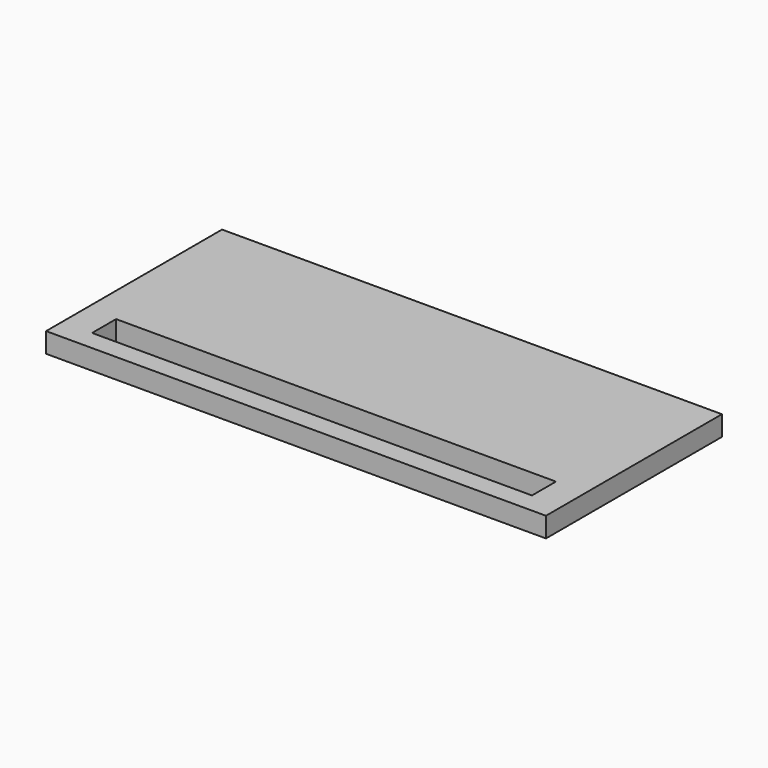
from build123d import *

# Parameters (mm, degrees)
BOX132_W     = 22
BOX132_H     = 1.5
BOX132_DEPTH = 2
BOX131_W     = 25
BOX131_H     = 11
BOX131_DEPTH = 1


with BuildPart() as longledhole005:
    # Box132 → Box132 (new body)
    with BuildSketch(Plane(origin=(1.5, 1, 0), x_dir=(1, 0, 0), z_dir=(0, 0, 1))):
        with Locations((11, 0.75)):
            Rectangle(BOX132_W, BOX132_H)
    extrude(amount=BOX132_DEPTH)


with BuildPart() as cut022:
    # Box131 → Box131 (new body)
    with BuildSketch(Plane.XY):
        with Locations((12.5, 5.5)):
            Rectangle(BOX131_W, BOX131_H)
    extrude(amount=BOX131_DEPTH)

    # Cut022: cut LongLedHole005
    add(longledhole005.part, mode=Mode.SUBTRACT)


solid = cut022.part
